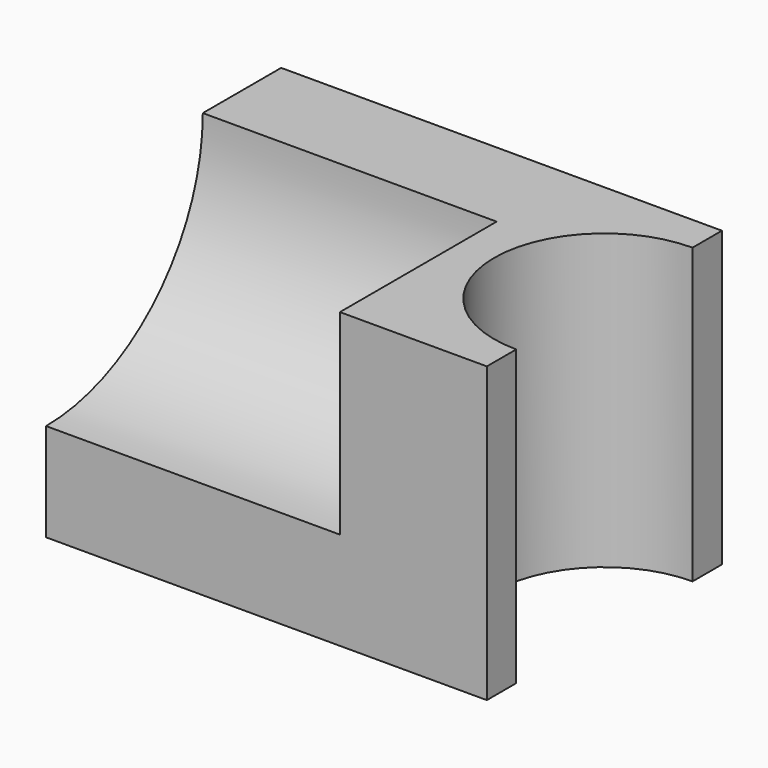
from build123d import *

# Parameters (mm, degrees)
F0_W     = 90
F0_H     = 60
F1_DEPTH = 60
F3_DEPTH = 63.6
F5_DEPTH = 60


with BuildPart() as f1:
    # F0 (on Front) → F1 (new body)
    with BuildSketch(Plane.XZ):
        with Locations((45, 30)):
            Rectangle(F0_W, F0_H)
    extrude(amount=F1_DEPTH)

    # F2 (on face) → F3 (cut, symmetric)
    with BuildSketch(Plane.XY.offset(60)):
        with BuildLine():
            Line((90, -52.5), (90, -7.5))
            ThreePointArc((90, -7.5), (67.5, -30), (90, -52.5))
        make_face()
    extrude(amount=F3_DEPTH, both=True, mode=Mode.SUBTRACT)

    # F4 (on face) → F5 (cut)
    with BuildSketch(Plane(origin=(0, 0, 0), x_dir=(0, -1, 0), z_dir=(-1, 0, 0))):
        with BuildLine():
            Line((60, 60), (20, 60))
            ThreePointArc((20, 60), (31.715729, 31.715729), (60, 20))
            Line((60, 20), (60, 60))
        make_face()
    extrude(amount=-F5_DEPTH, mode=Mode.SUBTRACT)


solid = f1.part
